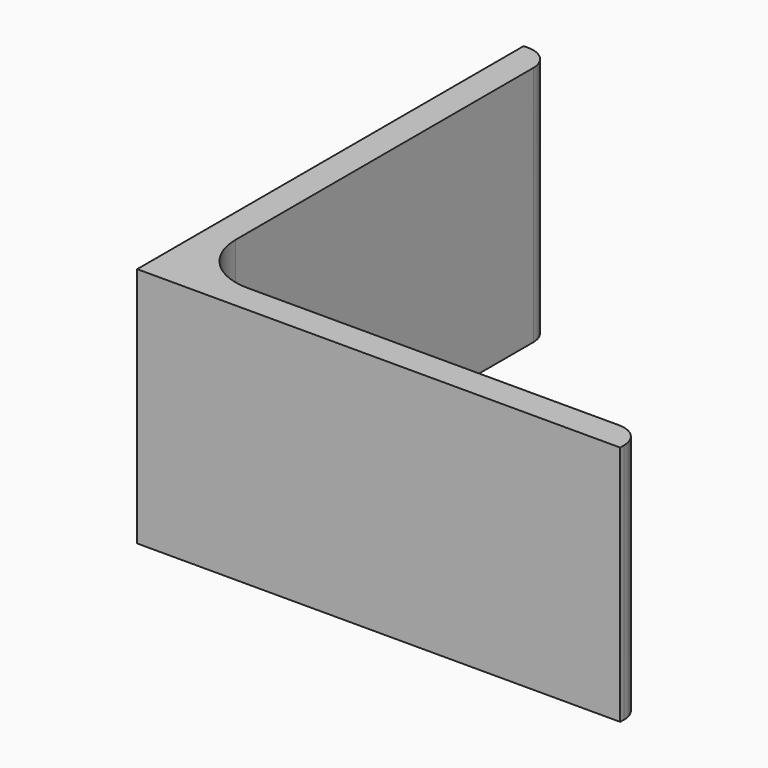
from build123d import *

# Parameters (mm, degrees)
EXTRUDE_DEPTH = 50


with BuildPart() as part:
    # Sketch → Extrude (new body)
    with BuildSketch(Plane.XY):
        with BuildLine():
            Line((0, 0), (100, 0))
            Line((100, 0), (100, 1))
            ThreePointArc((100, 1), (98.535534, 4.535534), (95, 6))
            Line((95, 6), (18, 6))
            ThreePointArc((6, 18), (9.514719, 9.514719), (18, 6))
            Line((6, 95), (6, 18))
            ThreePointArc((6, 95), (4.535534, 98.535534), (1, 100))
            Line((0, 100), (1, 100))
            Line((0, 0), (0, 100))
        make_face()
    extrude(amount=EXTRUDE_DEPTH)


solid = part.part
